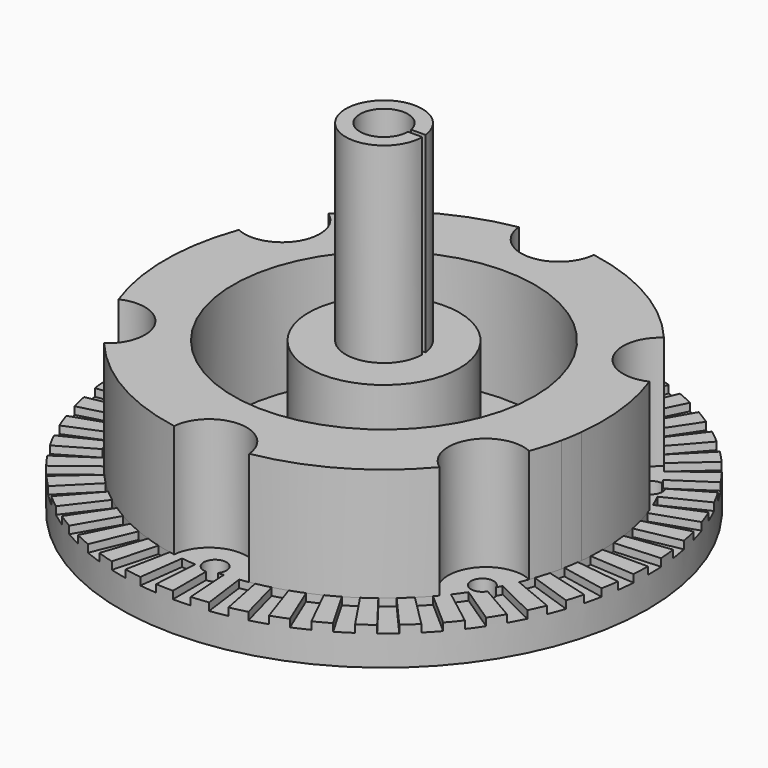
from build123d import *

# Parameters (mm, degrees)
F0_R      = 35
F1_DEPTH  = 20
F2_R      = 35
F2_R_2    = 20
F2_R_3    = 10
F3_DEPTH  = 15
F5_DEPTH  = 1
F6_R      = 5.0711987679
F7_DEPTH  = 25.4
F8_R      = 3.175
F9_DEPTH  = 45.401
F11_DEPTH = 25.4
F12_R     = 1.5
F13_DEPTH = 45.401


with BuildPart() as f1:
    # F0 (on Top) → F1 (new body)
    with BuildSketch(Plane.XY):
        Circle(F0_R)
    extrude(amount=F1_DEPTH)

    # F2 (on face) → F3 (cut)
    with BuildSketch(Plane.XY.offset(20)):
        Circle(F2_R)
        with BuildLine():
            ThreePointArc((22.2507567576, -18.5984898235), (14.5, -25.1147367097), (4.9813862804, -28.5689655172))
            ThreePointArc((4.9813862804, -28.5689655172), (0, -24), (-4.9813862804, -28.5689655172))
            ThreePointArc((-4.9813862804, -28.5689655172), (-14.5, -25.1147367097), (-22.2507567576, -18.5984898235))
            ThreePointArc((-22.2507567576, -18.5984898235), (-20.7846096908, -12), (-27.232143038, -9.9704756937))
            ThreePointArc((-27.232143038, -9.9704756937), (-29, 0), (-27.232143038, 9.9704756937))
            ThreePointArc((-27.232143038, 9.9704756937), (-20.7846096908, 12), (-22.2507567576, 18.5984898235))
            ThreePointArc((-22.2507567576, 18.5984898235), (-14.5, 25.1147367097), (-4.9813862804, 28.5689655172))
            ThreePointArc((-4.9813862804, 28.5689655172), (0, 24), (4.9813862804, 28.5689655172))
            ThreePointArc((4.9813862804, 28.5689655172), (14.5, 25.1147367097), (22.2507567576, 18.5984898235))
            ThreePointArc((22.2507567576, 18.5984898235), (20.7846096908, 12), (27.232143038, 9.9704756937))
            ThreePointArc((27.232143038, 9.9704756937), (28.7941520837, 3.4491746519), (28.8165730985, -3.2565495323))
            ThreePointArc((28.8165730985, -3.2565495323), (28.6266181729, -4.6386131528), (28.370417552, -6.0099424227))
            ThreePointArc((28.370417552, -6.0099424227), (27.8717176003, -8.0104530466), (27.232143038, -9.9704756937))
            ThreePointArc((27.232143038, -9.9704756937), (20.7846096908, -12), (22.2507567576, -18.5984898235))
        make_face(mode=Mode.SUBTRACT)
        Circle(F2_R_2)
        Circle(F2_R_3, mode=Mode.SUBTRACT)
    extrude(amount=-F3_DEPTH, mode=Mode.SUBTRACT)

    # F4 (on face) → F5 (cut)
    with BuildSketch(Plane.XY.offset(5)):
        with BuildLine():
            Line((0, -29), (0, -35))
            ThreePointArc((0, -35), (1.1451678988, -34.9812605617), (2.2891095231, -34.9250623134))
            Line((2.2891095231, -34.9250623134), (1.8966907477, -28.9379087739))
            ThreePointArc((1.8966907477, -28.9379087739), (0.9488534018, -28.9844730368), (0, -29))
        make_face()
        with BuildLine():
            Line((3.7852595744, -28.7519009798), (4.5684167277, -34.7005701481))
            ThreePointArc((4.5684167277, -34.7005701481), (5.7013415688, -34.532516623), (6.8281612706, -34.3274848141))
            Line((6.8281612706, -34.3274848141), (5.6576193385, -28.4427731317))
            ThreePointArc((5.6576193385, -28.4427731317), (4.7239687284, -28.6126566305), (3.7852595744, -28.7519009798))
        make_face()
        with BuildLine():
            Line((7.505752308, -28.0118489624), (9.0586665786, -33.8074039201))
            ThreePointArc((9.0586665786, -33.8074039201), (10.1599637039, -33.4929117506), (11.2503812856, -33.1425545323))
            Line((11.2503812856, -33.1425545323), (9.3217444938, -27.4609737554))
            ThreePointArc((9.3217444938, -27.4609737554), (8.4182556404, -27.7512697362), (7.505752308, -28.0118489624))
        make_face()
        with BuildLine():
            Line((11.0978195386, -26.7925064428), (13.3939201328, -32.3357836379))
            ThreePointArc((13.3939201328, -32.3357836379), (14.4447460432, -31.8802338722), (15.4801041577, -31.3905459536))
            Line((15.4801041577, -31.3905459536), (12.8263720164, -26.0093095044))
            ThreePointArc((12.8263720164, -26.0093095044), (11.9685038643, -26.4150509227), (11.0978195386, -26.7925064428))
        make_face()
        with BuildLine():
            Line((14.5, -25.1147367097), (17.5, -30.3108891325))
            ThreePointArc((17.5, -30.3108891325), (18.4823747728, -29.7220763534), (19.4449581557, -29.1014364306))
            Line((19.4449581557, -29.1014364306), (16.1115367576, -24.1126187568))
            ThreePointArc((16.1115367576, -24.1126187568), (15.3139676689, -24.6268632643), (14.5, -25.1147367097))
        make_face()
        with BuildLine():
            Line((17.6540814413, -23.0072468684), (21.3066500153, -27.7673669102))
            ThreePointArc((21.3066500153, -27.7673669102), (22.2037649457, -27.0553658677), (23.0771035285, -26.3143932618))
            Line((23.0771035285, -26.3143932618), (19.1210286379, -21.8033544169))
            ThreePointArc((19.1210286379, -21.8033544169), (18.3974052407, -22.4173031475), (17.6540814413, -23.0072468684))
        make_face()
        with BuildLine():
            Line((20.5060966544, -20.5060966544), (24.7487373415, -24.7487373415))
            ThreePointArc((24.7487373415, -24.7487373415), (25.5452425444, -23.9257305708), (26.3143932618, -23.0771035285))
            Line((26.3143932618, -23.0771035285), (21.8033544169, -19.1210286379))
            ThreePointArc((21.8033544169, -19.1210286379), (21.1660581082, -19.8241767587), (20.5060966544, -20.5060966544))
        make_face()
        with BuildLine():
            Line((23.0072468684, -17.6540814413), (27.7673669102, -21.3066500153))
            ThreePointArc((27.7673669102, -21.3066500153), (28.4496339607, -20.3867193904), (29.1014364306, -19.4449581557))
            Line((29.1014364306, -19.4449581557), (24.1126187568, -16.1115367576))
            ThreePointArc((24.1126187568, -16.1115367576), (23.5725538532, -16.8918532092), (23.0072468684, -17.6540814413))
        make_face()
        with BuildLine():
            Line((25.1147367097, -14.5), (30.3108891325, -17.5))
            ThreePointArc((30.3108891325, -17.5), (30.8672442522, -16.4988857889), (31.3905459536, -15.4801041577))
            Line((31.3905459536, -15.4801041577), (26.0093095044, -12.8263720164))
            ThreePointArc((26.0093095044, -12.8263720164), (25.5757166661, -13.670505368), (25.1147367097, -14.5))
        make_face()
        with BuildLine():
            Line((26.7925064428, -11.0978195386), (32.3357836379, -13.3939201328))
            ThreePointArc((32.3357836379, -13.3939201328), (32.7567074365, -12.3287516772), (33.1425545323, -11.2503812856))
            Line((33.1425545323, -11.2503812856), (27.4609737554, -9.3217444938))
            ThreePointArc((27.4609737554, -9.3217444938), (27.141271876, -10.2152513897), (26.7925064428, -11.0978195386))
        make_face()
        with BuildLine():
            Line((28.0118489624, -7.505752308), (33.8074039201, -9.0586665786))
            ThreePointArc((33.8074039201, -9.0586665786), (34.0856942747, -7.9476692062), (34.3274848141, -6.8281612706))
            Line((34.3274848141, -6.8281612706), (28.4427731317, -5.6576193385))
            ThreePointArc((28.4427731317, -5.6576193385), (28.242432399, -6.585211628), (28.0118489624, -7.505752308))
        make_face()
        with BuildLine():
            Line((28.7519009798, -3.7852595744), (34.7005701481, -4.5684167277))
            ThreePointArc((34.7005701481, -4.5684167277), (34.8314654335, -3.4305999115), (34.9250623134, -2.2891095231))
            Line((34.9250623134, -2.2891095231), (28.9379087739, -1.8966907477))
            ThreePointArc((28.9379087739, -1.8966907477), (28.8603570735, -2.8424970696), (28.7519009798, -3.7852595744))
        make_face()
        with BuildLine():
            Line((29, 0), (35, 0))
            ThreePointArc((35, 0), (34.9812605617, 1.1451678988), (34.9250623134, 2.2891095231))
            Line((34.9250623134, 2.2891095231), (28.9379087739, 1.8966907477))
            ThreePointArc((28.9379087739, 1.8966907477), (28.9844730368, 0.9488534018), (29, 0))
        make_face()
        with BuildLine():
            Line((28.7519009798, 3.7852595744), (34.7005701481, 4.5684167277))
            ThreePointArc((34.7005701481, 4.5684167277), (34.532516623, 5.7013415688), (34.3274848141, 6.8281612706))
            Line((34.3274848141, 6.8281612706), (28.4427731317, 5.6576193385))
            ThreePointArc((28.4427731317, 5.6576193385), (28.6126566305, 4.7239687284), (28.7519009798, 3.7852595744))
        make_face()
        with BuildLine():
            Line((28.0118489624, 7.505752308), (33.8074039201, 9.0586665786))
            ThreePointArc((33.8074039201, 9.0586665786), (33.4929117506, 10.1599637039), (33.1425545323, 11.2503812856))
            Line((33.1425545323, 11.2503812856), (27.4609737554, 9.3217444938))
            ThreePointArc((27.4609737554, 9.3217444938), (27.7512697362, 8.4182556404), (28.0118489624, 7.505752308))
        make_face()
        with BuildLine():
            Line((26.7925064428, 11.0978195386), (32.3357836379, 13.3939201328))
            ThreePointArc((32.3357836379, 13.3939201328), (31.8802338722, 14.4447460432), (31.3905459536, 15.4801041577))
            Line((31.3905459536, 15.4801041577), (26.0093095044, 12.8263720164))
            ThreePointArc((26.0093095044, 12.8263720164), (26.4150509227, 11.9685038643), (26.7925064428, 11.0978195386))
        make_face()
        with BuildLine():
            Line((25.1147367097, 14.5), (30.3108891325, 17.5))
            ThreePointArc((30.3108891325, 17.5), (29.7220763534, 18.4823747728), (29.1014364306, 19.4449581557))
            Line((29.1014364306, 19.4449581557), (24.1126187568, 16.1115367576))
            ThreePointArc((24.1126187568, 16.1115367576), (24.6268632643, 15.3139676689), (25.1147367097, 14.5))
        make_face()
        with BuildLine():
            Line((23.0072468684, 17.6540814413), (27.7673669102, 21.3066500153))
            ThreePointArc((27.7673669102, 21.3066500153), (27.0553658677, 22.2037649457), (26.3143932618, 23.0771035285))
            Line((26.3143932618, 23.0771035285), (21.8033544169, 19.1210286379))
            ThreePointArc((21.8033544169, 19.1210286379), (22.4173031475, 18.3974052407), (23.0072468684, 17.6540814413))
        make_face()
        with BuildLine():
            Line((20.5060966544, 20.5060966544), (24.7487373415, 24.7487373415))
            ThreePointArc((24.7487373415, 24.7487373415), (23.9257305708, 25.5452425444), (23.0771035285, 26.3143932618))
            Line((23.0771035285, 26.3143932618), (19.1210286379, 21.8033544169))
            ThreePointArc((19.1210286379, 21.8033544169), (19.8241767587, 21.1660581082), (20.5060966544, 20.5060966544))
        make_face()
        with BuildLine():
            Line((17.6540814413, 23.0072468684), (21.3066500153, 27.7673669102))
            ThreePointArc((21.3066500153, 27.7673669102), (20.3867193904, 28.4496339607), (19.4449581557, 29.1014364306))
            Line((19.4449581557, 29.1014364306), (16.1115367576, 24.1126187568))
            ThreePointArc((16.1115367576, 24.1126187568), (16.8918532092, 23.5725538532), (17.6540814413, 23.0072468684))
        make_face()
        with BuildLine():
            Line((14.5, 25.1147367097), (17.5, 30.3108891325))
            ThreePointArc((17.5, 30.3108891325), (16.4988857889, 30.8672442522), (15.4801041577, 31.3905459536))
            Line((15.4801041577, 31.3905459536), (12.8263720164, 26.0093095044))
            ThreePointArc((12.8263720164, 26.0093095044), (13.670505368, 25.5757166661), (14.5, 25.1147367097))
        make_face()
        with BuildLine():
            Line((11.0978195386, 26.7925064428), (13.3939201328, 32.3357836379))
            ThreePointArc((13.3939201328, 32.3357836379), (12.3287516772, 32.7567074365), (11.2503812856, 33.1425545323))
            Line((11.2503812856, 33.1425545323), (9.3217444938, 27.4609737554))
            ThreePointArc((9.3217444938, 27.4609737554), (10.2152513897, 27.141271876), (11.0978195386, 26.7925064428))
        make_face()
        with BuildLine():
            Line((7.505752308, 28.0118489624), (9.0586665786, 33.8074039201))
            ThreePointArc((9.0586665786, 33.8074039201), (7.9476692062, 34.0856942747), (6.8281612706, 34.3274848141))
            Line((6.8281612706, 34.3274848141), (5.6576193385, 28.4427731317))
            ThreePointArc((5.6576193385, 28.4427731317), (6.585211628, 28.242432399), (7.505752308, 28.0118489624))
        make_face()
        with BuildLine():
            Line((3.7852595744, 28.7519009798), (4.5684167277, 34.7005701481))
            ThreePointArc((4.5684167277, 34.7005701481), (3.4305999115, 34.8314654335), (2.2891095231, 34.9250623134))
            Line((2.2891095231, 34.9250623134), (1.8966907477, 28.9379087739))
            ThreePointArc((1.8966907477, 28.9379087739), (2.8424970696, 28.8603570735), (3.7852595744, 28.7519009798))
        make_face()
        with BuildLine():
            Line((0, 29), (0, 35))
            ThreePointArc((0, 35), (-1.1451678988, 34.9812605617), (-2.2891095231, 34.9250623134))
            Line((-2.2891095231, 34.9250623134), (-1.8966907477, 28.9379087739))
            ThreePointArc((-1.8966907477, 28.9379087739), (-0.9488534018, 28.9844730368), (0, 29))
        make_face()
        with BuildLine():
            Line((-3.7852595744, 28.7519009798), (-4.5684167277, 34.7005701481))
            ThreePointArc((-4.5684167277, 34.7005701481), (-5.7013415688, 34.532516623), (-6.8281612706, 34.3274848141))
            Line((-6.8281612706, 34.3274848141), (-5.6576193385, 28.4427731317))
            ThreePointArc((-5.6576193385, 28.4427731317), (-4.7239687284, 28.6126566305), (-3.7852595744, 28.7519009798))
        make_face()
        with BuildLine():
            Line((-7.505752308, 28.0118489624), (-9.0586665786, 33.8074039201))
            ThreePointArc((-9.0586665786, 33.8074039201), (-10.1599637039, 33.4929117506), (-11.2503812856, 33.1425545323))
            Line((-11.2503812856, 33.1425545323), (-9.3217444938, 27.4609737554))
            ThreePointArc((-9.3217444938, 27.4609737554), (-8.4182556404, 27.7512697362), (-7.505752308, 28.0118489624))
        make_face()
        with BuildLine():
            Line((-11.0978195386, 26.7925064428), (-13.3939201328, 32.3357836379))
            ThreePointArc((-13.3939201328, 32.3357836379), (-14.4447460432, 31.8802338722), (-15.4801041577, 31.3905459536))
            Line((-15.4801041577, 31.3905459536), (-12.8263720164, 26.0093095044))
            ThreePointArc((-12.8263720164, 26.0093095044), (-11.9685038643, 26.4150509227), (-11.0978195386, 26.7925064428))
        make_face()
        with BuildLine():
            Line((-14.5, 25.1147367097), (-17.5, 30.3108891325))
            ThreePointArc((-17.5, 30.3108891325), (-18.4823747728, 29.7220763534), (-19.4449581557, 29.1014364306))
            Line((-19.4449581557, 29.1014364306), (-16.1115367576, 24.1126187568))
            ThreePointArc((-16.1115367576, 24.1126187568), (-15.3139676689, 24.6268632643), (-14.5, 25.1147367097))
        make_face()
        with BuildLine():
            Line((-17.6540814413, 23.0072468684), (-21.3066500153, 27.7673669102))
            ThreePointArc((-21.3066500153, 27.7673669102), (-22.2037649457, 27.0553658677), (-23.0771035285, 26.3143932618))
            Line((-23.0771035285, 26.3143932618), (-19.1210286379, 21.8033544169))
            ThreePointArc((-19.1210286379, 21.8033544169), (-18.3974052407, 22.4173031475), (-17.6540814413, 23.0072468684))
        make_face()
        with BuildLine():
            Line((-20.5060966544, 20.5060966544), (-24.7487373415, 24.7487373415))
            ThreePointArc((-24.7487373415, 24.7487373415), (-25.5452425444, 23.9257305708), (-26.3143932618, 23.0771035285))
            Line((-26.3143932618, 23.0771035285), (-21.8033544169, 19.1210286379))
            ThreePointArc((-21.8033544169, 19.1210286379), (-21.1660581082, 19.8241767587), (-20.5060966544, 20.5060966544))
        make_face()
        with BuildLine():
            Line((-23.0072468684, 17.6540814413), (-27.7673669102, 21.3066500153))
            ThreePointArc((-27.7673669102, 21.3066500153), (-28.4496339607, 20.3867193904), (-29.1014364306, 19.4449581557))
            Line((-29.1014364306, 19.4449581557), (-24.1126187568, 16.1115367576))
            ThreePointArc((-24.1126187568, 16.1115367576), (-23.5725538532, 16.8918532092), (-23.0072468684, 17.6540814413))
        make_face()
        with BuildLine():
            Line((-25.1147367097, 14.5), (-30.3108891325, 17.5))
            ThreePointArc((-30.3108891325, 17.5), (-30.8672442522, 16.4988857889), (-31.3905459536, 15.4801041577))
            Line((-31.3905459536, 15.4801041577), (-26.0093095044, 12.8263720164))
            ThreePointArc((-26.0093095044, 12.8263720164), (-25.5757166661, 13.670505368), (-25.1147367097, 14.5))
        make_face()
        with BuildLine():
            Line((-26.7925064428, 11.0978195386), (-32.3357836379, 13.3939201328))
            ThreePointArc((-32.3357836379, 13.3939201328), (-32.7567074365, 12.3287516772), (-33.1425545323, 11.2503812856))
            Line((-33.1425545323, 11.2503812856), (-27.4609737554, 9.3217444938))
            ThreePointArc((-27.4609737554, 9.3217444938), (-27.141271876, 10.2152513897), (-26.7925064428, 11.0978195386))
        make_face()
        with BuildLine():
            Line((-28.0118489624, 7.505752308), (-33.8074039201, 9.0586665786))
            ThreePointArc((-33.8074039201, 9.0586665786), (-34.0856942747, 7.9476692062), (-34.3274848141, 6.8281612706))
            Line((-34.3274848141, 6.8281612706), (-28.4427731317, 5.6576193385))
            ThreePointArc((-28.4427731317, 5.6576193385), (-28.242432399, 6.585211628), (-28.0118489624, 7.505752308))
        make_face()
        with BuildLine():
            Line((-28.7519009798, 3.7852595744), (-34.7005701481, 4.5684167277))
            ThreePointArc((-34.7005701481, 4.5684167277), (-34.8314654335, 3.4305999115), (-34.9250623134, 2.2891095231))
            Line((-34.9250623134, 2.2891095231), (-28.9379087739, 1.8966907477))
            ThreePointArc((-28.9379087739, 1.8966907477), (-28.8603570735, 2.8424970696), (-28.7519009798, 3.7852595744))
        make_face()
        with BuildLine():
            Line((-29, 0), (-35, 0))
            ThreePointArc((-35, 0), (-34.9812605617, -1.1451678988), (-34.9250623134, -2.2891095231))
            Line((-34.9250623134, -2.2891095231), (-28.9379087739, -1.8966907477))
            ThreePointArc((-28.9379087739, -1.8966907477), (-28.9844730368, -0.9488534018), (-29, 0))
        make_face()
        with BuildLine():
            Line((-28.7519009798, -3.7852595744), (-34.7005701481, -4.5684167277))
            ThreePointArc((-34.7005701481, -4.5684167277), (-34.532516623, -5.7013415688), (-34.3274848141, -6.8281612706))
            Line((-34.3274848141, -6.8281612706), (-28.4427731317, -5.6576193385))
            ThreePointArc((-28.4427731317, -5.6576193385), (-28.6126566305, -4.7239687284), (-28.7519009798, -3.7852595744))
        make_face()
        with BuildLine():
            Line((-28.0118489624, -7.505752308), (-33.8074039201, -9.0586665786))
            ThreePointArc((-33.8074039201, -9.0586665786), (-33.4929117506, -10.1599637039), (-33.1425545323, -11.2503812856))
            Line((-33.1425545323, -11.2503812856), (-27.4609737554, -9.3217444938))
            ThreePointArc((-27.4609737554, -9.3217444938), (-27.7512697362, -8.4182556404), (-28.0118489624, -7.505752308))
        make_face()
        with BuildLine():
            Line((-26.7925064428, -11.0978195386), (-32.3357836379, -13.3939201328))
            ThreePointArc((-32.3357836379, -13.3939201328), (-31.8802338722, -14.4447460432), (-31.3905459536, -15.4801041577))
            Line((-31.3905459536, -15.4801041577), (-26.0093095044, -12.8263720164))
            ThreePointArc((-26.0093095044, -12.8263720164), (-26.4150509227, -11.9685038643), (-26.7925064428, -11.0978195386))
        make_face()
        with BuildLine():
            Line((-25.1147367097, -14.5), (-30.3108891325, -17.5))
            ThreePointArc((-30.3108891325, -17.5), (-29.7220763534, -18.4823747728), (-29.1014364306, -19.4449581557))
            Line((-29.1014364306, -19.4449581557), (-24.1126187568, -16.1115367576))
            ThreePointArc((-24.1126187568, -16.1115367576), (-24.6268632643, -15.3139676689), (-25.1147367097, -14.5))
        make_face()
        with BuildLine():
            Line((-23.0072468684, -17.6540814413), (-27.7673669102, -21.3066500153))
            ThreePointArc((-27.7673669102, -21.3066500153), (-27.0553658677, -22.2037649457), (-26.3143932618, -23.0771035285))
            Line((-26.3143932618, -23.0771035285), (-21.8033544169, -19.1210286379))
            ThreePointArc((-21.8033544169, -19.1210286379), (-22.4173031475, -18.3974052407), (-23.0072468684, -17.6540814413))
        make_face()
        with BuildLine():
            Line((-20.5060966544, -20.5060966544), (-24.7487373415, -24.7487373415))
            ThreePointArc((-24.7487373415, -24.7487373415), (-23.9257305708, -25.5452425444), (-23.0771035285, -26.3143932618))
            Line((-23.0771035285, -26.3143932618), (-19.1210286379, -21.8033544169))
            ThreePointArc((-19.1210286379, -21.8033544169), (-19.8241767587, -21.1660581082), (-20.5060966544, -20.5060966544))
        make_face()
        with BuildLine():
            Line((-17.6540814413, -23.0072468684), (-21.3066500153, -27.7673669102))
            ThreePointArc((-21.3066500153, -27.7673669102), (-20.3867193904, -28.4496339607), (-19.4449581557, -29.1014364306))
            Line((-19.4449581557, -29.1014364306), (-16.1115367576, -24.1126187568))
            ThreePointArc((-16.1115367576, -24.1126187568), (-16.8918532092, -23.5725538532), (-17.6540814413, -23.0072468684))
        make_face()
        with BuildLine():
            Line((-14.5, -25.1147367097), (-17.5, -30.3108891325))
            ThreePointArc((-17.5, -30.3108891325), (-16.4988857889, -30.8672442522), (-15.4801041577, -31.3905459536))
            Line((-15.4801041577, -31.3905459536), (-12.8263720164, -26.0093095044))
            ThreePointArc((-12.8263720164, -26.0093095044), (-13.670505368, -25.5757166661), (-14.5, -25.1147367097))
        make_face()
        with BuildLine():
            Line((-11.0978195386, -26.7925064428), (-13.3939201328, -32.3357836379))
            ThreePointArc((-13.3939201328, -32.3357836379), (-12.3287516772, -32.7567074365), (-11.2503812856, -33.1425545323))
            Line((-11.2503812856, -33.1425545323), (-9.3217444938, -27.4609737554))
            ThreePointArc((-9.3217444938, -27.4609737554), (-10.2152513897, -27.141271876), (-11.0978195386, -26.7925064428))
        make_face()
        with BuildLine():
            Line((-7.505752308, -28.0118489624), (-9.0586665786, -33.8074039201))
            ThreePointArc((-9.0586665786, -33.8074039201), (-7.9476692062, -34.0856942747), (-6.8281612706, -34.3274848141))
            Line((-6.8281612706, -34.3274848141), (-5.6576193385, -28.4427731317))
            ThreePointArc((-5.6576193385, -28.4427731317), (-6.585211628, -28.242432399), (-7.505752308, -28.0118489624))
        make_face()
        with BuildLine():
            Line((-3.7852595744, -28.7519009798), (-4.5684167277, -34.7005701481))
            ThreePointArc((-4.5684167277, -34.7005701481), (-3.4305999115, -34.8314654335), (-2.2891095231, -34.9250623134))
            Line((-2.2891095231, -34.9250623134), (-1.8966907477, -28.9379087739))
            ThreePointArc((-1.8966907477, -28.9379087739), (-2.8424970696, -28.8603570735), (-3.7852595744, -28.7519009798))
        make_face()
    extrude(amount=-F5_DEPTH, mode=Mode.SUBTRACT)

    # F6 (on face) → F7 (join)
    with BuildSketch(Plane.XY.offset(20)):
        Circle(F6_R)
    extrude(amount=F7_DEPTH)

    # F8 (on face) → F9 (cut, through all)
    with BuildSketch(Plane.XY.offset(45.4)):
        Circle(F8_R)
    extrude(amount=-F9_DEPTH, mode=Mode.SUBTRACT)

    # F10 (on face) → F11 (cut, through all)
    with BuildSketch(Plane.XY.offset(45.4)):
        with BuildLine():
            ThreePointArc((3.1211041969, 0.5825234693), (3.1614973371, 0.292505705), (3.175, 0))
            Line((3.175, 0), (5.0711987679, 0))
            ThreePointArc((5.0711987679, 0), (5.0627998026, 0.2917449253), (5.0376307279, 0.5825234693))
            Line((5.0376307279, 0.5825234693), (3.1211041969, 0.5825234693))
        make_face()
    extrude(amount=-F11_DEPTH, mode=Mode.SUBTRACT)

    # F12 (on face) → F13 (cut, through all)
    with BuildSketch(Plane.XY):
        with Locations((0, -28)):
            Circle(F12_R)
        with Locations((24.248711306, -14)):
            Circle(F12_R)
        with Locations((24.248711306, 14)):
            Circle(F12_R)
        with Locations((0, 28)):
            Circle(F12_R)
        with Locations((-24.248711306, 14)):
            Circle(F12_R)
        with Locations((-24.248711306, -14)):
            Circle(F12_R)
    extrude(amount=F13_DEPTH, mode=Mode.SUBTRACT)


solid = f1.part
